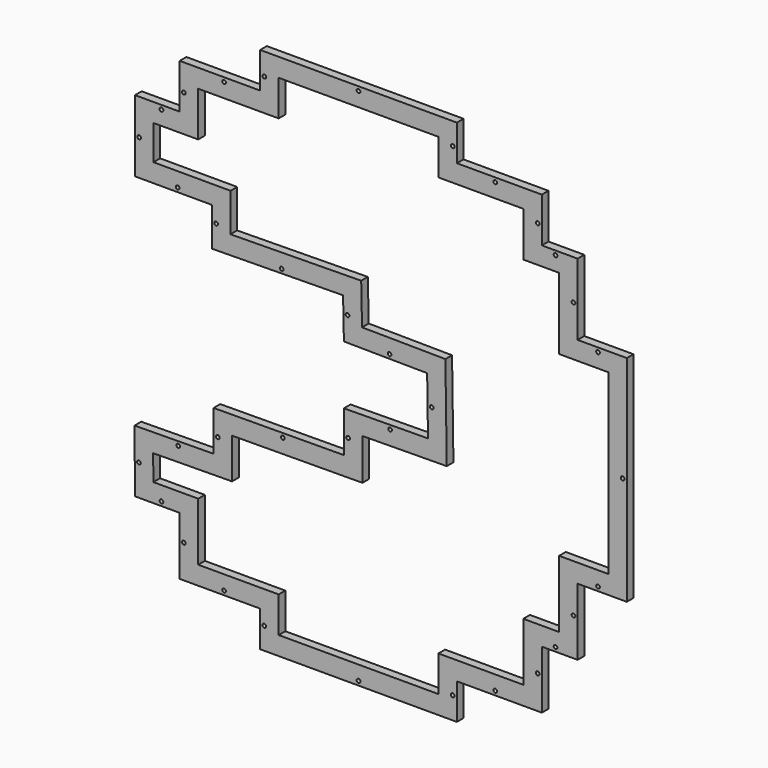
from build123d import *

# Parameters (mm, degrees)
F0_R     = 2
F1_DEPTH = 9
F3_DEPTH = 9.001


with BuildPart() as f1:
    # F0 (on Front) → F1 (new body)
    with BuildSketch(Plane.XZ):
        Polygon((265.897079, -111.097285), (265.897079, 120.763555), (212.761675, 120.763555), (212.761675, 198.045397), (174.114259, 198.045397), (174.114259, 246.352586), (82.3411, 246.352586), (82.3411, 285.000002), (-130.196029, 285.000002), (-130.196029, 246.352586), (-217.152296, 246.352586), (-217.152296, 198.045397), (-265.461152, 198.045397), (-265.461152, 120.763555), (-182.215667, 120.657777), (-182.292131, 78.99439), (-40.622253, 80.756165), (-39.717878, 37.151925), (50.208882, 36.247385), (51.121586, -25.518982), (-39.717878, -26.429854), (-39.717878, -70.935305), (-180.510698, -71.846343), (-180.510698, -115.447249), (-265.897079, -116.364784), (-265.461152, -183.560564), (-217.152296, -183.560564), (-217.152296, -246.360741), (-130.196029, -246.360741), (-130.196029, -284.999998), (82.3411, -284.999998), (82.3411, -246.360741), (174.114259, -246.360741), (174.114259, -183.560564), (212.761675, -183.560564), (212.761675, -111.097285), align=None)
        with Locations((-169.174156, -241.860734)):
            Circle(F0_R, mode=Mode.SUBTRACT)
        with Locations((-236.821267, -179.060557)):
            Circle(F0_R, mode=Mode.SUBTRACT)
        with Locations((-212.652289, -210.460646)):
            Circle(F0_R, mode=Mode.SUBTRACT)
        with Locations((-261.179171, -149.93847)):
            Circle(F0_R, mode=Mode.SUBTRACT)
        with Locations((-125.696022, -261.180363)):
            Circle(F0_R, mode=Mode.SUBTRACT)
        with Locations((-23.927464, -280.499991)):
            Circle(F0_R, mode=Mode.SUBTRACT)
        with Locations((-218.689395, -120.357772)):
            Circle(F0_R, mode=Mode.SUBTRACT)
        with Locations((-176.010692, -98.108243)):
            Circle(F0_R, mode=Mode.SUBTRACT)
        with Locations((-105.614282, -75.861807)):
            Circle(F0_R, mode=Mode.SUBTRACT)
        with Locations((-35.217872, -53.145626)):
            Circle(F0_R, mode=Mode.SUBTRACT)
        with Locations((77.841094, -261.180363)):
            Circle(F0_R, mode=Mode.SUBTRACT)
        with Locations((123.727673, -241.860734)):
            Circle(F0_R, mode=Mode.SUBTRACT)
        with Locations((169.614252, -210.460646)):
            Circle(F0_R, mode=Mode.SUBTRACT)
        with Locations((188.937961, -179.060557)):
            Circle(F0_R, mode=Mode.SUBTRACT)
        with Locations((208.261669, -142.828918)):
            Circle(F0_R, mode=Mode.SUBTRACT)
        with Locations((10.235017, -30.429196)):
            Circle(F0_R, mode=Mode.SUBTRACT)
        with Locations((234.829371, -106.597278)):
            Circle(F0_R, mode=Mode.SUBTRACT)
        with Locations((-219.334275, 125.204953)):
            Circle(F0_R, mode=Mode.SUBTRACT)
        with Locations((-177.74558, 104.351434)):
            Circle(F0_R, mode=Mode.SUBTRACT)
        with Locations((-35.762538, 63.459567)):
            Circle(F0_R, mode=Mode.SUBTRACT)
        with Locations((-106.999755, 84.431064)):
            Circle(F0_R, mode=Mode.SUBTRACT)
        with Locations((-260.961145, 159.401619)):
            Circle(F0_R, mode=Mode.SUBTRACT)
        with Locations((-236.806717, 193.54539)):
            Circle(F0_R, mode=Mode.SUBTRACT)
        with Locations((-212.652289, 217.698985)):
            Circle(F0_R, mode=Mode.SUBTRACT)
        with Locations((-169.174156, 241.852579)):
            Circle(F0_R, mode=Mode.SUBTRACT)
        with Locations((-125.696022, 261.176288)):
            Circle(F0_R, mode=Mode.SUBTRACT)
        with Locations((-23.927464, 280.499996)):
            Circle(F0_R, mode=Mode.SUBTRACT)
        with Locations((55.165724, 5.364793)):
            Circle(F0_R, mode=Mode.SUBTRACT)
        with Locations((9.66711, 41.155414)):
            Circle(F0_R, mode=Mode.SUBTRACT)
        with Locations((261.397073, 4.833135)):
            Circle(F0_R, mode=Mode.SUBTRACT)
        with Locations((234.829371, 116.263548)):
            Circle(F0_R, mode=Mode.SUBTRACT)
        with Locations((123.727673, 241.852579)):
            Circle(F0_R, mode=Mode.SUBTRACT)
        with Locations((77.841094, 261.176288)):
            Circle(F0_R, mode=Mode.SUBTRACT)
        with Locations((188.937961, 193.54539)):
            Circle(F0_R, mode=Mode.SUBTRACT)
        with Locations((208.261669, 154.904469)):
            Circle(F0_R, mode=Mode.SUBTRACT)
        with Locations((169.614252, 217.698985)):
            Circle(F0_R, mode=Mode.SUBTRACT)
    extrude(amount=F1_DEPTH)

    # F2 (on face) → F3 (cut, through all)
    with BuildSketch(Plane(origin=(0, 0, 0), x_dir=(-1, 0, 0), z_dir=(0, 1, 0))):
        Polygon((-62.341114, 265.000015), (-62.341114, 226.352599), (-154.114272, 226.352599), (-154.114272, 178.04541), (-192.761689, 178.04541), (-192.761689, 100.763568), (-245.897092, 100.763568), (-245.897092, -91.097298), (-192.761689, -91.097298), (-192.761689, -163.560577), (-154.114272, -163.560577), (-154.114272, -226.360754), (-62.341114, -226.360754), (-62.341114, -265.000011), (110.196042, -265.000011), (110.196042, -226.360754), (197.152309, -226.360754), (197.152309, -163.560577), (245.590493, -163.560577), (245.768319, -136.149628), (160.510711, -135.233477), (160.510711, -91.717333), (19.717892, -90.806296), (19.717892, -46.230301), (-71.416299, -45.316474), (-69.918433, 56.050133), (20.124334, 56.95584), (21.037859, 101.001245), (162.254945, 99.245101), (162.178988, 140.63232), (245.461165, 140.738145), (245.461165, 178.04541), (197.152309, 178.04541), (197.152309, 226.352599), (110.196042, 226.352599), (110.196042, 265.000015), align=None)
    extrude(amount=-F3_DEPTH, mode=Mode.SUBTRACT)


solid = f1.part
